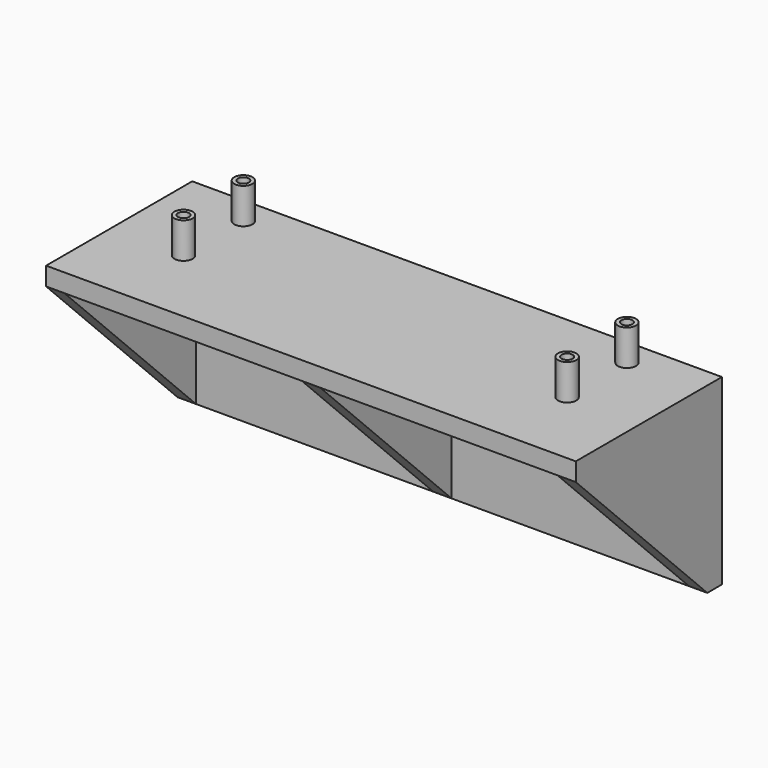
from build123d import *

# Parameters (mm, degrees)
F0_W      = 145
F0_H      = 50
F1_DEPTH  = 5
F2_R      = 2.5
F2_R_2    = 1.5
F3_DEPTH  = 9.75
F4_R      = 1.5
F5_DEPTH  = 25
F6_W      = 5
F6_H      = 45
F7_DEPTH  = 145
F9_DEPTH  = 5
F10_START = -70
F10_DEPTH = 5
F11_START = -140
F11_DEPTH = 5
F12_R     = 2.5
F12_R_2   = 1.5
F13_DEPTH = 5


with BuildPart() as f1:
    # F0 (on Top) → F1 (new body)
    with BuildSketch(Plane.XY):
        with Locations((72.5, 25)):
            Rectangle(F0_W, F0_H)
    extrude(amount=F1_DEPTH)

    # F2 (on face) → F3 (join)
    with BuildSketch(Plane.XY.offset(5)):
        with Locations((20, 42.5)):
            Circle(F2_R)
        with Locations((20, 42.5)):
            Circle(F2_R_2, mode=Mode.SUBTRACT)
        with Locations((20, 22.04)):
            Circle(F2_R)
        with Locations((20, 22.04)):
            Circle(F2_R_2, mode=Mode.SUBTRACT)
        with Locations((125, 42.5)):
            Circle(F2_R)
        with Locations((125, 42.5)):
            Circle(F2_R_2, mode=Mode.SUBTRACT)
        with Locations((125, 22.04)):
            Circle(F2_R)
        with Locations((125, 22.04)):
            Circle(F2_R_2, mode=Mode.SUBTRACT)
    extrude(amount=F3_DEPTH)

    # F4 (on face) → F5 (cut)
    with BuildSketch(Plane.XY.offset(5)):
        with Locations((20, 42.5)):
            Circle(F4_R)
        with Locations((20, 22.04)):
            Circle(F4_R)
        with Locations((125, 42.5)):
            Circle(F4_R)
        with Locations((125, 22.04)):
            Circle(F4_R)
    extrude(amount=-F5_DEPTH, mode=Mode.SUBTRACT)

    # F6 (on face) → F7 (join, through all)
    with BuildSketch(Plane.YZ.offset(145)):
        with Locations((47.5, -22.5)):
            Rectangle(F6_W, F6_H)
    extrude(amount=-F7_DEPTH)

    # F8 (on face) → F9 (join)
    with BuildSketch(Plane(origin=(0, 0, 0), x_dir=(0, -1, 0), z_dir=(-1, 0, 0))):
        Polygon((-45, 0), (-45, -45), (0, 0), align=None)
    extrude(amount=-F9_DEPTH)

    # F8 (on face) → F10 (join)
    with BuildSketch(Plane(origin=(0, 0, 0), x_dir=(0, -1, 0), z_dir=(-1, 0, 0)).offset(F10_START)):
        Polygon((-45, 0), (-45, -45), (0, 0), align=None)
    extrude(amount=-F10_DEPTH)

    # F8 (on face) → F11 (join)
    with BuildSketch(Plane(origin=(0, 0, 0), x_dir=(0, -1, 0), z_dir=(-1, 0, 0)).offset(F11_START)):
        Polygon((-45, 0), (-45, -45), (0, 0), align=None)
    extrude(amount=-F11_DEPTH)

    # F12 (on face) → F13 (join)
    with BuildSketch(Plane(origin=(0, 50, 0), x_dir=(-1, 0, 0), z_dir=(0, 1, 0))):
        with Locations((-102.5, -5)):
            Circle(F12_R)
        with Locations((-102.5, -5)):
            Circle(F12_R_2, mode=Mode.SUBTRACT)
        with Locations((-102.5, -25.46)):
            Circle(F12_R)
        with Locations((-102.5, -25.46)):
            Circle(F12_R_2, mode=Mode.SUBTRACT)
        with Locations((-42.5, -5)):
            Circle(F12_R)
        with Locations((-42.5, -5)):
            Circle(F12_R_2, mode=Mode.SUBTRACT)
        with Locations((-42.5, -25.46)):
            Circle(F12_R)
        with Locations((-42.5, -25.46)):
            Circle(F12_R_2, mode=Mode.SUBTRACT)
    extrude(amount=F13_DEPTH)


solid = f1.part
